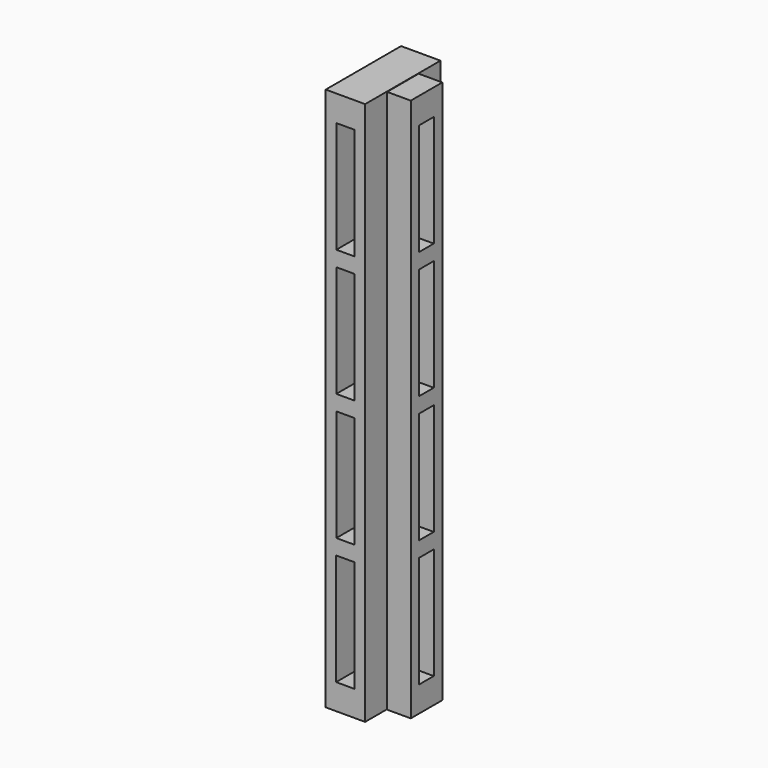
from build123d import *

# Parameters (mm, degrees)
F0_W     = 10
F0_H     = 138
F0_W_2   = 4.6593984449
F0_H_2   = 28.3
F0_W_3   = 4.6
F1_DEPTH = 11.95
F2_DEPTH = 9
F4_W     = 10
F4_H     = 138
F4_W_2   = 4.6593984449
F4_H_2   = 28.3
F4_W_3   = 4.6
F5_DEPTH = 6
F6_DEPTH = 7.6


with BuildPart() as f1:
    # F0 (on Front) → F1 (new body)
    with BuildSketch(Plane.XZ):
        with Locations((-25.2545091997, -12.3230710179)):
            Rectangle(F0_W, F0_H)
        with Locations((-25.2918084222, -60.6730710179)):
            Rectangle(F0_W_2, F0_H_2, mode=Mode.SUBTRACT)
        Polygon((-27.5621091997, -41.1834381521), (-27.5621091997, -14.3230710179), (-22.9621091997, -14.3230710179), (-22.9621091997, -42.6230710179), (-27.5621091997, -42.6230710179), align=None, mode=Mode.SUBTRACT)
        with Locations((-25.2621091997, 3.7269289821)):
            Rectangle(F0_W_3, F0_H_2, mode=Mode.SUBTRACT)
        with Locations((-25.2621091997, 35.9269289821)):
            Rectangle(F0_W_3, F0_H_2, mode=Mode.SUBTRACT)
        with Locations((-25.2621091997, 35.9269289821)):
            Rectangle(F0_W_3, F0_H_2)
        with Locations((-25.2621091997, 3.7269289821)):
            Rectangle(F0_W_3, F0_H_2)
        Polygon((-22.9621091997, -14.3230710179), (-27.5621091997, -14.3230710179), (-27.5621091997, -41.1834381521), (-27.5621091997, -42.6230710179), (-22.9621091997, -42.6230710179), align=None)
        with Locations((-25.2918084222, -60.6730710179)):
            Rectangle(F0_W_2, F0_H_2)
    extrude(amount=F1_DEPTH)

    # F0 (on Front) → F2 (cut)
    with BuildSketch(Plane.XZ):
        with Locations((-25.2621091997, 35.9269289821)):
            Rectangle(F0_W_3, F0_H_2)
        with Locations((-25.2621091997, 3.7269289821)):
            Rectangle(F0_W_3, F0_H_2)
        Polygon((-22.9621091997, -14.3230710179), (-27.5621091997, -14.3230710179), (-27.5621091997, -41.1834381521), (-27.5621091997, -42.6230710179), (-22.9621091997, -42.6230710179), align=None)
        with Locations((-25.2918084222, -60.6730710179)):
            Rectangle(F0_W_2, F0_H_2)
    extrude(amount=F2_DEPTH, mode=Mode.SUBTRACT)

    # F3: F1 across face


with BuildPart() as f1_1:
    add(f1.part)
    add(f1.part.mirror(Plane(origin=(-25.2545091997, -11.95, -12.3230710179), x_dir=(1, 0, 0), z_dir=(0, -1, 0))))

    # F4 (on face) → F5 (join)
    with BuildSketch(Plane.YZ.offset(-20.2545091997)):
        with Locations((-11.9253657708, -12.4240700761)):
            Rectangle(F4_W, F4_H)
        with Locations((-11.9626649932, -60.7740700761)):
            Rectangle(F4_W_2, F4_H_2, mode=Mode.SUBTRACT)
        with Locations((-11.9329657708, -28.5740700761)):
            Rectangle(F4_W_3, F4_H_2, mode=Mode.SUBTRACT)
        with Locations((-11.9329657708, 3.6259299239)):
            Rectangle(F4_W_3, F4_H_2, mode=Mode.SUBTRACT)
        with Locations((-11.9329657708, 35.8259299239)):
            Rectangle(F4_W_3, F4_H_2, mode=Mode.SUBTRACT)
    extrude(amount=F5_DEPTH)

    # F6 (cut): faces of the model
    f6_faces = [f1_1.faces().sort_by_distance(p)[0] for p in [
        (-20.2545091997, -11.9329657708, 35.8259299239),
        (-20.2545091997, -11.9329657708, 3.6259299239),
        (-20.2545091997, -11.9329657708, -28.5740700761),
        (-20.2545091997, -11.9626649932, -60.7740700761),
    ]]
    extrude(f6_faces, amount=-F6_DEPTH, mode=Mode.SUBTRACT)


solid = f1_1.part
